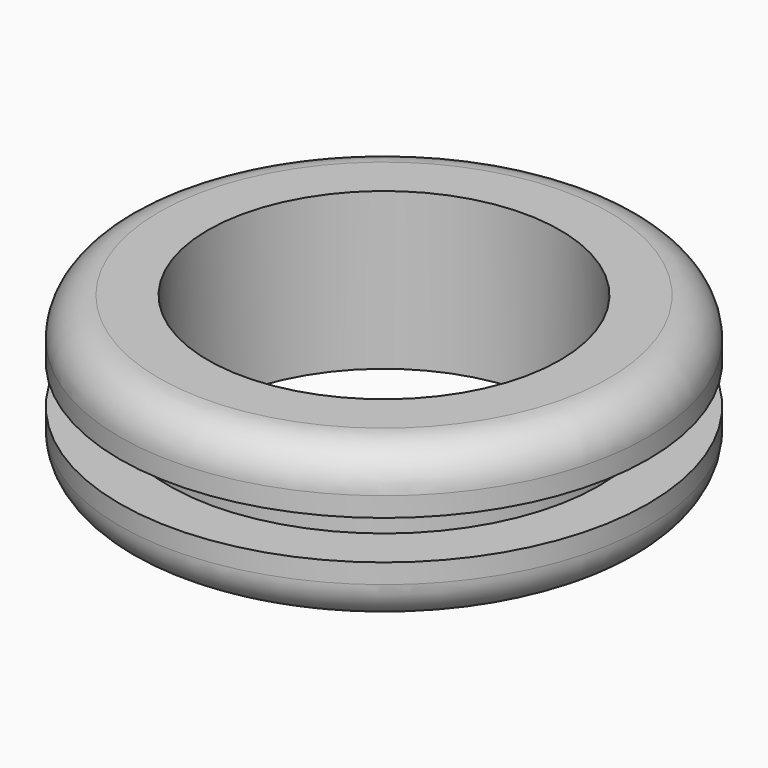
from build123d import *


with BuildPart() as f1:
    # F0 (on Front) → F1 (revolve)
    with BuildSketch(Plane.XZ):
        with BuildLine():
            Line((-9, -4), (-9, 4))
            Line((-9, 4), (-11.5, 4))
            ThreePointArc((-11.5, 4), (-12.914214, 3.414214), (-13.5, 2))
            Line((-13.5, 2), (-13.5, 1))
            Line((-13.5, 1), (-11, 1))
            Line((-11, 1), (-11, -1))
            Line((-11, -1), (-13.5, -1))
            Line((-13.5, -1), (-13.5, -2))
            ThreePointArc((-13.5, -2), (-12.914214, -3.414214), (-11.5, -4))
            Line((-11.5, -4), (-9, -4))
        make_face()
    revolve(axis=Axis((0, 0, -0.598291), (0, 0, 1)))


solid = f1.part
